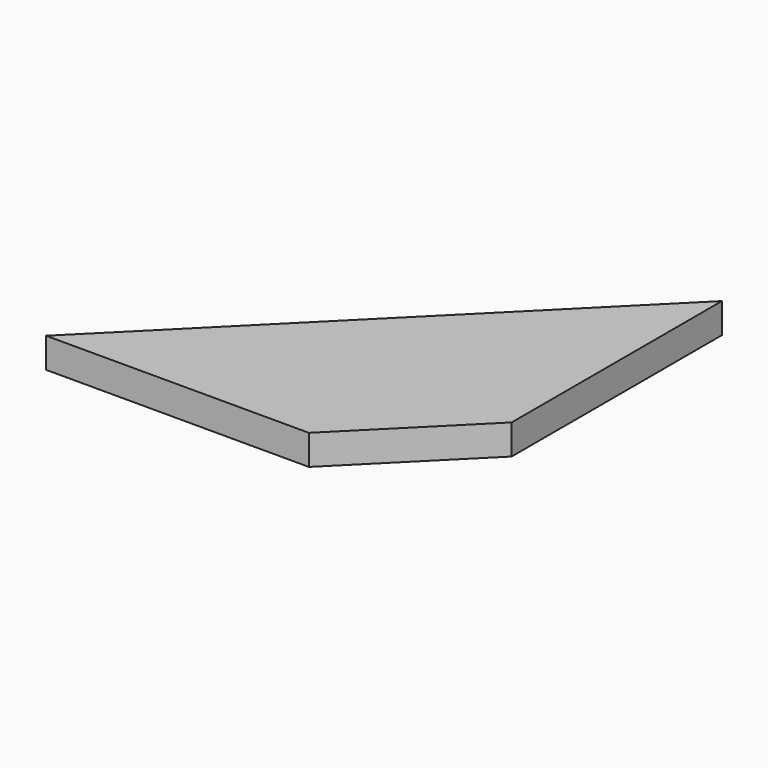
from build123d import *

# Parameters (mm, degrees)
F1_DEPTH = 2


with BuildPart() as f1:
    # F0 (on Top) → F1 (new body, symmetric)
    with BuildSketch(Plane.XY):
        Polygon((50, 50), (0, 0), (35, 0), (50, 15), align=None)
    extrude(amount=F1_DEPTH, both=True)


solid = f1.part
